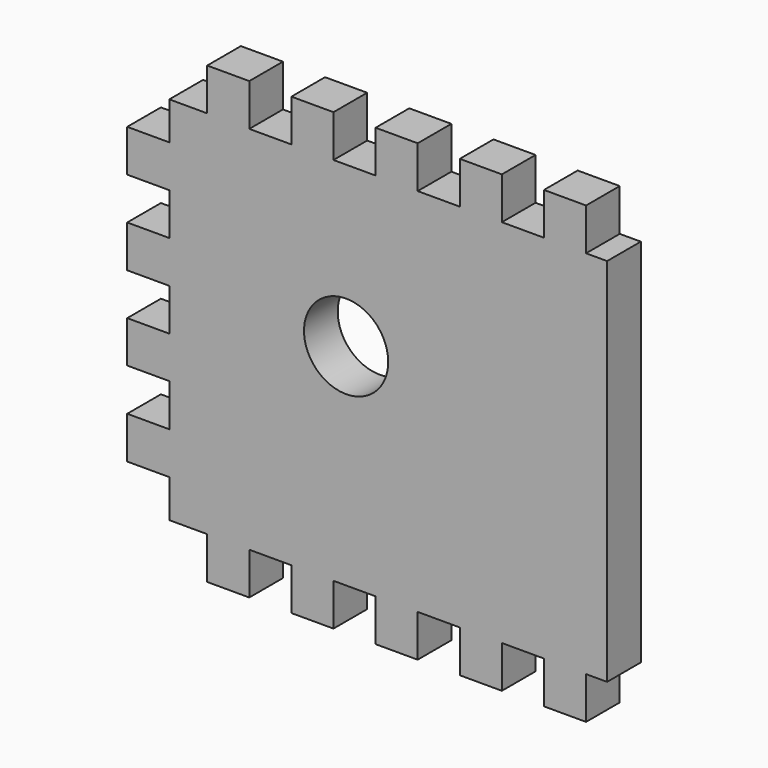
from build123d import *

# Parameters (mm, degrees)
F0_R     = 6.35
F1_DEPTH = 3.175


with BuildPart() as f1:
    # F0 (on Front) → F1 (new body, symmetric)
    with BuildSketch(Plane.XZ):
        Polygon((33.02, -27.94), (33.02, 27.94), (29.845, 27.94), (29.845, 34.29), (23.495, 34.29), (23.495, 27.94), (17.145, 27.94), (17.145, 34.29), (10.795, 34.29), (10.795, 27.94), (4.445, 27.94), (4.445, 34.29), (-1.905, 34.29), (-1.905, 27.94), (-8.255, 27.94), (-8.255, 34.29), (-14.605, 34.29), (-14.605, 27.94), (-20.955, 27.94), (-20.955, 34.29), (-27.305, 34.29), (-27.305, 27.94), (-33.02, 27.94), (-33.02, 22.225), (-39.37, 22.225), (-39.37, 15.875), (-33.02, 15.875), (-33.02, 9.525), (-39.37, 9.525), (-39.37, 3.175), (-33.02, 3.175), (-33.02, -3.175), (-39.37, -3.175), (-39.37, -9.475044), (-33.02, -9.475044), (-33.02, -9.525), (-33.02, -15.875), (-39.37, -15.875), (-39.37, -22.225), (-33.02, -22.225), (-33.02, -27.94), (-27.305, -27.94), (-27.305, -34.29), (-20.955, -34.29), (-20.955, -27.94), (-14.605, -27.94), (-14.605, -34.29), (-8.255, -34.29), (-8.255, -27.94), (-1.905, -27.94), (-1.905, -34.29), (4.445, -34.29), (4.445, -27.94), (10.795, -27.94), (10.795, -34.29), (17.145, -34.29), (17.145, -27.94), (23.495, -27.94), (23.495, -34.29), (29.845, -34.29), (29.845, -27.94), align=None)
        with Locations((-6.35, 3.81)):
            Circle(F0_R, mode=Mode.SUBTRACT)
    extrude(amount=F1_DEPTH, both=True)


solid = f1.part
